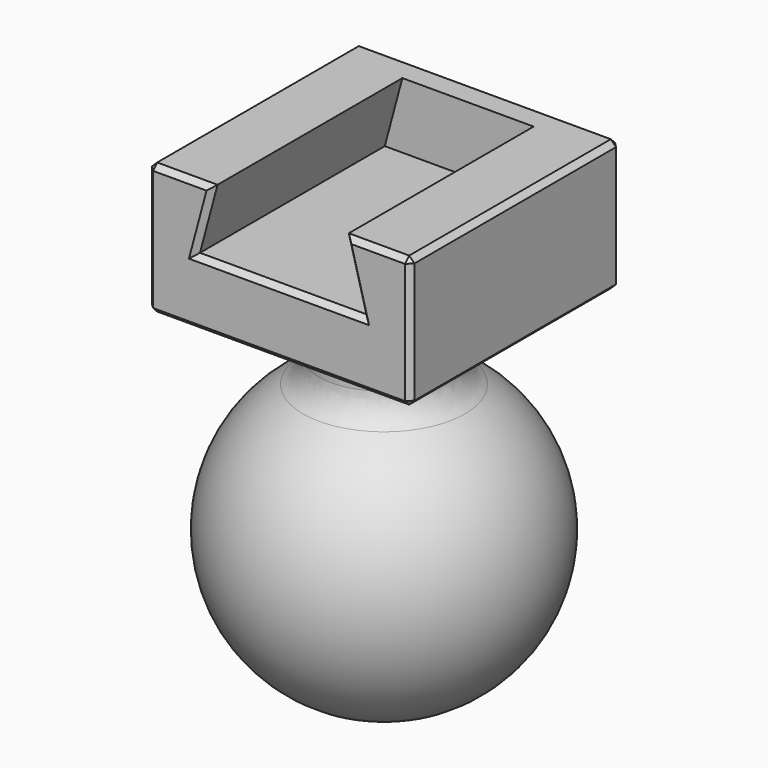
from build123d import *

# Parameters (mm, degrees)
F6_DEPTH = 10
F7_START = -8
F7_DEPTH = 2
F9_R     = 2.5
F8_SIZE  = 0.4


with BuildPart() as f4:
    # F3 (on Front) → F4 (revolve)
    with BuildSketch(Plane.XZ):
        with BuildLine():
            ThreePointArc((-5, 21.8561575886), (-2.5645845405, 22.7103927734), (0, 23))
            Line((0, 23), (0, 26.8561575886))
            Line((0, 26.8561575886), (-5, 26.8561575886))
            Line((-5, 26.8561575886), (-5, 21.8561575886))
        make_face()
        with BuildLine():
            ThreePointArc((-5, 21.8561575886), (-11.2103927734, 8.9354154595), (0, 0))
            Line((0, 0), (0, 23))
            ThreePointArc((0, 23), (-2.5645845405, 22.7103927734), (-5, 21.8561575886))
        make_face()
    revolve(axis=Axis((0, 0, 13.4280787943), (0, 0, -1)))

    # F3 (on Front) → F5 (revolve)
    with BuildSketch(Plane.XZ):
        with BuildLine():
            ThreePointArc((-5, 21.8561575886), (-2.5645845405, 22.7103927734), (0, 23))
            Line((0, 23), (0, 26.8561575886))
            Line((0, 26.8561575886), (-5, 26.8561575886))
            Line((-5, 26.8561575886), (-5, 21.8561575886))
        make_face()
    revolve(axis=Axis((0, 0, 13.4280787943), (0, 0, -1)))

    # F3 (on Front) → F6 (join, symmetric)
    with BuildSketch(Plane.XZ):
        Polygon((0, 26.8561575886), (5, 26.8561575886), (10, 26.8561575886), (10, 36.8561575886), (5, 36.8561575886), (6.3397459622, 31.8561575886), (-6.3397459622, 31.8561575886), (-5, 36.8561575886), (-10, 36.8561575886), (-10, 26.8561575886), (-5, 26.8561575886), align=None)
    extrude(amount=F6_DEPTH, both=True)

    # F3 (on Front) → F7 (join)
    with BuildSketch(Plane.XZ.offset(F7_START)):
        Polygon((6.3397459622, 31.8561575886), (5, 36.8561575886), (-5, 36.8561575886), (-6.3397459622, 31.8561575886), align=None)
    extrude(amount=-F7_DEPTH)

    # F9
    f9_edges = [f4.edges().sort_by_distance(p)[0] for p in [
        (-5, 0, 24.356158),
        (5, 0, 21.856158),
        (5, 0, 26.856158),
    ]]
    fillet(f9_edges, radius=F9_R)

    # F8
    f8_edges = [f4.edges().sort_by_distance(p)[0] for p in [
        (0, -10, 26.856158),
        (10, -10, 31.856158),
        (7.5, -10, 36.856158),
        (5.669873, -10, 34.356158),
        (0, -10, 31.856158),
        (-5.669873, -10, 34.356158),
        (-7.5, -10, 36.856158),
        (-10, -10, 31.856158),
        (10, 0, 26.856158),
        (10, 10, 31.856158),
        (10, 0, 36.856158),
        (7.5, 0, 26.856158),
        (0, 10, 26.856158),
        (-10, 0, 26.856158),
        (-10, 0, 36.856158),
        (-10, 10, 31.856158),
        (0, 10, 36.856158),
    ]]
    chamfer(f8_edges, length=F8_SIZE)


solid = f4.part
